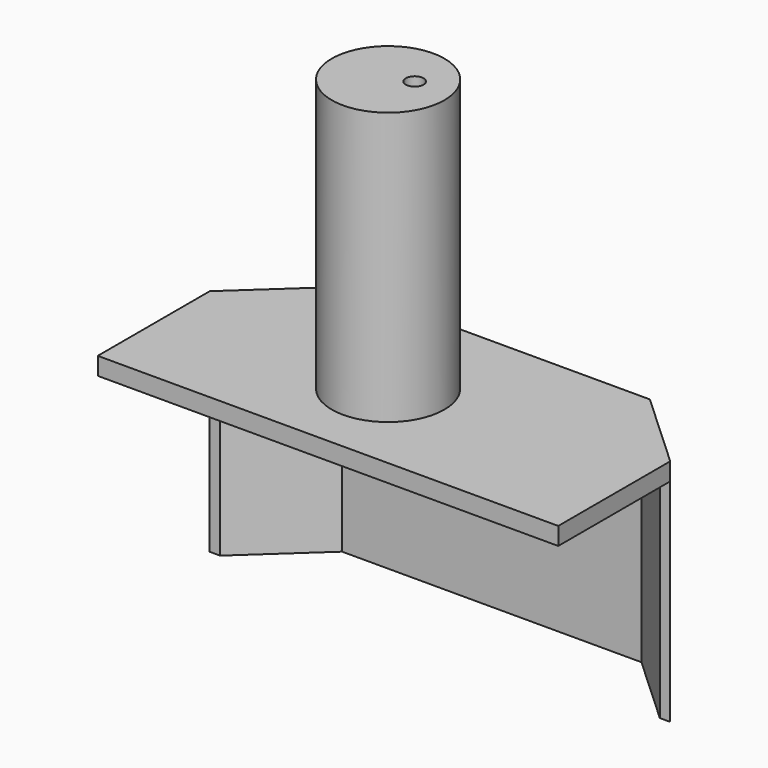
from build123d import *

# Parameters (mm, degrees)
F1_DEPTH = 6.35
F3_DEPTH = 76.2
F4_R     = 20.270686
F5_DEPTH = 104.346251
F6_R     = 3.175
F7_DEPTH = 180.547251


with BuildPart() as f1:
    # F0 (on Top) → F1 (new body)
    with BuildSketch(Plane.XY):
        Polygon((-82.839586, 50.360938), (-82.839586, 0), (82.839586, 0), (82.839586, 50.360938), (54.840428, 76.2), (-54.840428, 76.2), align=None)
    extrude(amount=F1_DEPTH)

    # F2 (on face) → F3 (join)
    with BuildSketch(Plane(origin=(0, 0, 0), x_dir=(1, 0, 0), z_dir=(0, 0, -1))):
        Polygon((-54.840428, -76.2), (54.840428, -76.2), (82.839586, -50.360938), (79.094327, -50.360938), (53.847508, -73.66), (-53.847508, -73.66), (-79.094327, -50.360938), (-82.839586, -50.360938), align=None)
    extrude(amount=F3_DEPTH)

    # F4 (on face) → F5 (join)
    with BuildSketch(Plane(origin=(0, 0, 0), x_dir=(1, 0, 0), z_dir=(0, 0, -1))):
        with Locations((-6.616414, -35.295554)):
            Circle(F4_R)
    extrude(amount=-F5_DEPTH)

    # F6 (on face) → F7 (cut, through all)
    with BuildSketch(Plane.XY.offset(104.346251)):
        with Locations((0, 38.975005)):
            Circle(F6_R)
    extrude(amount=-F7_DEPTH, mode=Mode.SUBTRACT)


solid = f1.part
